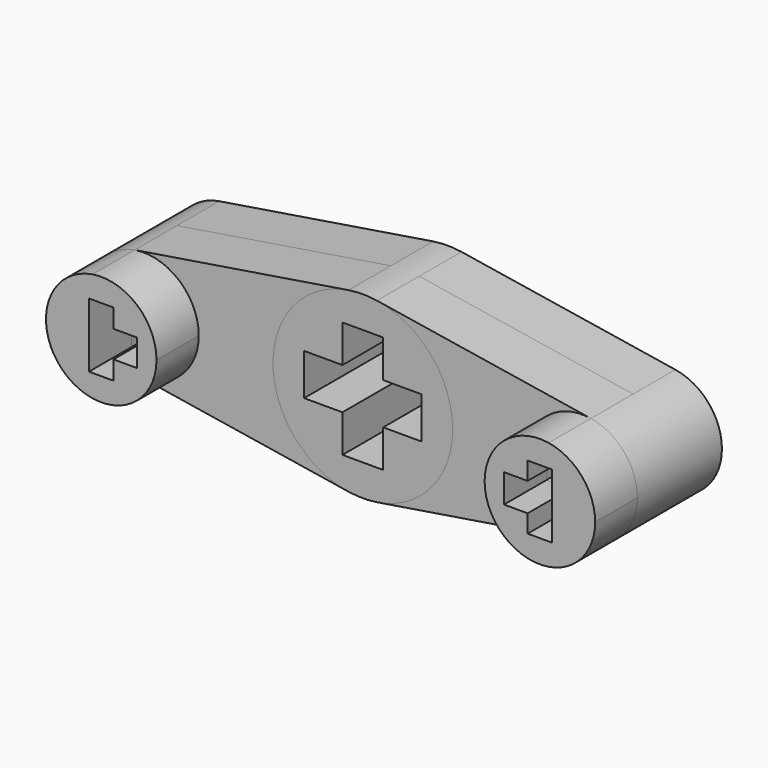
from build123d import *

# Parameters (mm, degrees)
F0_W     = 11.3693646318
F0_H     = 12.9375691502
F0_H_2   = 13.7216638794
F1_DEPTH = 25.4
F2_DEPTH = 50.8
F3_DEPTH = 25.4


with BuildPart() as f1:
    # F0 (on Front) → F1 (new body)
    with BuildSketch(Plane.XZ):
        with BuildLine():
            ThreePointArc((-6.8164538385, -42.6646873664), (-43.2057819163, 0), (-6.8164538385, 42.6646873664))
            Line((-6.8164538385, 42.6646873664), (-109.6522398205, 26.2348145286))
            ThreePointArc((-109.6522398205, 26.2348145286), (-88.2201543147, 20.213751239), (-78.8932173515, 0))
            ThreePointArc((-78.8932173515, 0), (-88.2201543147, -20.213751239), (-109.6522398205, -26.2348145286))
            Line((-109.6522398205, -26.2348145286), (-6.8164538385, -42.6646873664))
        make_face()
        with BuildLine():
            ThreePointArc((6.8164538385, 42.6646873664), (32.8728596945, 28.0377368293), (43.2057819163, 0))
            ThreePointArc((43.2057819163, 0), (32.8728596945, -28.0377368293), (6.8164538385, -42.6646873664))
            Line((6.8164538385, -42.6646873664), (109.6522398205, -26.2348145286))
            ThreePointArc((109.6522398205, -26.2348145286), (78.8932173515, 0), (109.6522398205, 26.2348145286))
            Line((109.6522398205, 26.2348145286), (6.8164538385, 42.6646873664))
        make_face()
        with BuildLine():
            ThreePointArc((132.0282920518, 0), (125.6745059406, 17.240600387), (109.6522398205, 26.2348145286))
            ThreePointArc((109.6522398205, 26.2348145286), (78.8932173515, 0), (109.6522398205, -26.2348145286))
            ThreePointArc((109.6522398205, -26.2348145286), (125.6745059406, -17.240600387), (132.0282920518, 0))
        make_face()
        Polygon((88.2106725414, -6.8608319397), (88.2106725414, 6.8608319397), (99.5800371732, 6.8608319397), (99.5800371732, 15.4858744317), (111.3414722301, 15.4858744317), (111.3414722301, 6.8608319397), (122.7108368619, 6.8608319397), (122.7108368619, -6.8608319397), (111.3414722301, -6.8608319397), (111.3414722301, -15.4858744317), (99.5800371732, -15.4858744317), (99.5800371732, -6.8608319397), align=None, mode=Mode.SUBTRACT)
        with BuildLine():
            ThreePointArc((6.8164538385, -42.6646873664), (32.8728596945, -28.0377368293), (43.2057819163, 0))
            ThreePointArc((43.2057819163, 0), (32.8728596945, 28.0377368293), (6.8164538385, 42.6646873664))
            ThreePointArc((6.8164538385, 42.6646873664), (0, 43.2057819163), (-6.8164538385, 42.6646873664))
            ThreePointArc((-6.8164538385, 42.6646873664), (-43.2057819163, 0), (-6.8164538385, -42.6646873664))
            ThreePointArc((-6.8164538385, -42.6646873664), (0, -43.2057819163), (6.8164538385, -42.6646873664))
        make_face()
        Polygon((-28.2274140168, -9.9972113272), (-28.2274140168, 9.9972113272), (-9.8011827033, 9.9972113272), (-9.8011827033, 28.0313919816), (9.8011827033, 28.0313919816), (9.8011827033, 9.9972113272), (28.2274140168, 9.9972113272), (28.2274140168, -9.9972113272), (9.8011827033, -9.9972113272), (9.8011827033, -28.0313919816), (-9.8011827033, -28.0313919816), (-9.8011827033, -9.9972113272), align=None, mode=Mode.SUBTRACT)
        with BuildLine():
            ThreePointArc((-78.8932173515, 0), (-88.2201543147, 20.213751239), (-109.6522398205, 26.2348145286))
            ThreePointArc((-109.6522398205, 26.2348145286), (-132.0282920518, 0), (-109.6522398205, -26.2348145286))
            ThreePointArc((-109.6522398205, -26.2348145286), (-88.2201543147, -20.213751239), (-78.8932173515, 0))
        make_face()
        Polygon((-122.7108368619, -6.4687845751), (-122.7108368619, 6.4687845751), (-111.3414722301, 6.4687845751), (-111.3414722301, 15.4858744317), (-99.5800371732, 15.4858744317), (-99.5800371732, 6.4687845751), (-88.2106725414, 6.4687845751), (-88.2106725414, -6.4687845751), (-99.5800371732, -6.4687845751), (-99.5800371732, -15.4858744317), (-111.3414722301, -15.4858744317), (-111.3414722301, -6.4687845751), align=None, mode=Mode.SUBTRACT)
        with Locations((-117.026154546, 0)):
            Rectangle(F0_W, F0_H)
        with Locations((117.026154546, 0)):
            Rectangle(F0_W, F0_H_2)
    extrude(amount=F1_DEPTH)

    # F0 (on Front) → F2 (join)
    with BuildSketch(Plane.XZ):
        with BuildLine():
            ThreePointArc((-78.8932173515, 0), (-88.2201543147, 20.213751239), (-109.6522398205, 26.2348145286))
            ThreePointArc((-109.6522398205, 26.2348145286), (-132.0282920518, 0), (-109.6522398205, -26.2348145286))
            ThreePointArc((-109.6522398205, -26.2348145286), (-88.2201543147, -20.213751239), (-78.8932173515, 0))
        make_face()
        Polygon((-122.7108368619, -6.4687845751), (-122.7108368619, 6.4687845751), (-111.3414722301, 6.4687845751), (-111.3414722301, 15.4858744317), (-99.5800371732, 15.4858744317), (-99.5800371732, 6.4687845751), (-88.2106725414, 6.4687845751), (-88.2106725414, -6.4687845751), (-99.5800371732, -6.4687845751), (-99.5800371732, -15.4858744317), (-111.3414722301, -15.4858744317), (-111.3414722301, -6.4687845751), align=None, mode=Mode.SUBTRACT)
        with BuildLine():
            ThreePointArc((6.8164538385, -42.6646873664), (32.8728596945, -28.0377368293), (43.2057819163, 0))
            ThreePointArc((43.2057819163, 0), (32.8728596945, 28.0377368293), (6.8164538385, 42.6646873664))
            ThreePointArc((6.8164538385, 42.6646873664), (0, 43.2057819163), (-6.8164538385, 42.6646873664))
            ThreePointArc((-6.8164538385, 42.6646873664), (-43.2057819163, 0), (-6.8164538385, -42.6646873664))
            ThreePointArc((-6.8164538385, -42.6646873664), (0, -43.2057819163), (6.8164538385, -42.6646873664))
        make_face()
        Polygon((-28.2274140168, -9.9972113272), (-28.2274140168, 9.9972113272), (-9.8011827033, 9.9972113272), (-9.8011827033, 28.0313919816), (9.8011827033, 28.0313919816), (9.8011827033, 9.9972113272), (28.2274140168, 9.9972113272), (28.2274140168, -9.9972113272), (9.8011827033, -9.9972113272), (9.8011827033, -28.0313919816), (-9.8011827033, -28.0313919816), (-9.8011827033, -9.9972113272), align=None, mode=Mode.SUBTRACT)
        with BuildLine():
            ThreePointArc((132.0282920518, 0), (125.6745059406, 17.240600387), (109.6522398205, 26.2348145286))
            ThreePointArc((109.6522398205, 26.2348145286), (78.8932173515, 0), (109.6522398205, -26.2348145286))
            ThreePointArc((109.6522398205, -26.2348145286), (125.6745059406, -17.240600387), (132.0282920518, 0))
        make_face()
        Polygon((88.2106725414, -6.8608319397), (88.2106725414, 6.8608319397), (99.5800371732, 6.8608319397), (99.5800371732, 15.4858744317), (111.3414722301, 15.4858744317), (111.3414722301, 6.8608319397), (122.7108368619, 6.8608319397), (122.7108368619, -6.8608319397), (111.3414722301, -6.8608319397), (111.3414722301, -15.4858744317), (99.5800371732, -15.4858744317), (99.5800371732, -6.8608319397), align=None, mode=Mode.SUBTRACT)
        with Locations((-117.026154546, 0)):
            Rectangle(F0_W, F0_H)
        with Locations((117.026154546, 0)):
            Rectangle(F0_W, F0_H_2)
    extrude(amount=F2_DEPTH)

    # F3 (add): faces of the model
    f3_faces = [f1.faces().sort_by_distance(p)[0] for p in [
        (-59.7216205033, -25.4, 0),
        (-131.2768486191, -50.8, 0),
        (59.7216205033, -25.4, 0),
        (79.6446607843, -50.8, 0),
    ]]
    extrude(f3_faces, amount=F3_DEPTH)


solid = f1.part
